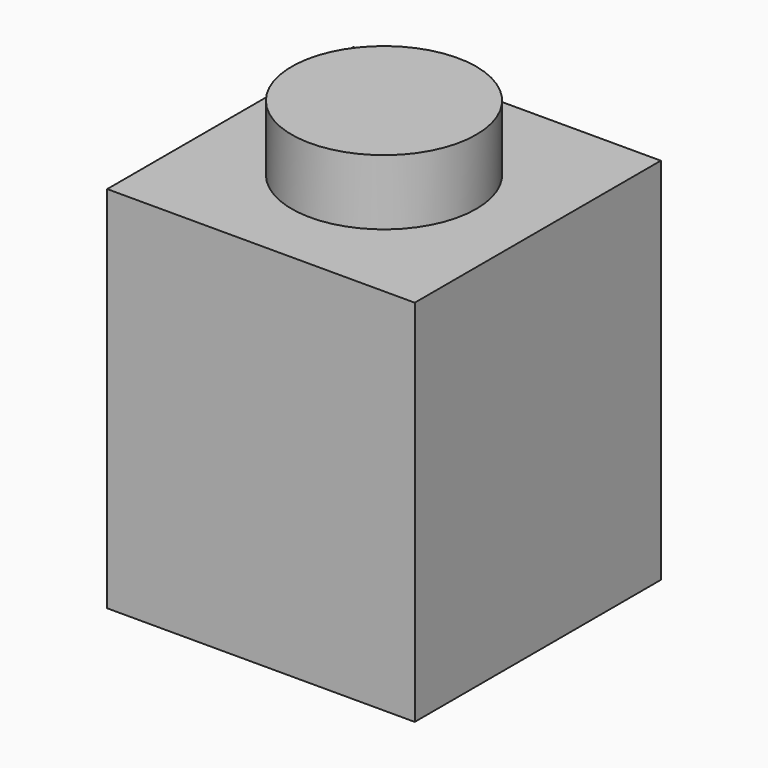
from build123d import *

# Parameters (mm, degrees)
F1_DEPTH = 8
F3_W     = 8
F3_H     = 8
F3_R     = 2.4
F4_DEPTH = 1.7
F5_R     = 2.4
F6_DEPTH = 1.7


with BuildPart() as f1:
    # F0 (on Front) → F1 (new body)
    with BuildSketch(Plane.XZ):
        Polygon((-2.4, 9.6), (-4, 9.6), (-4, 0), (4, 0), (4, 9.6), (2.4, 9.6), (2.4, 11.3), (-2.4, 11.3), align=None)
    extrude(amount=F1_DEPTH)

    # F3 (on plane+point) → F4 (cut, through all)
    with BuildSketch(Plane.XY.offset(11.3)):
        with Locations((0, -4)):
            Rectangle(F3_W, F3_H)
        with Locations((0, -4)):
            Circle(F3_R, mode=Mode.SUBTRACT)
    extrude(amount=-F4_DEPTH, mode=Mode.SUBTRACT)

    # F5 (on Top) → F6 (cut)
    with BuildSketch(Plane.XY):
        with Locations((0, -4)):
            Circle(F5_R)
    extrude(amount=F6_DEPTH, mode=Mode.SUBTRACT)


solid = f1.part
